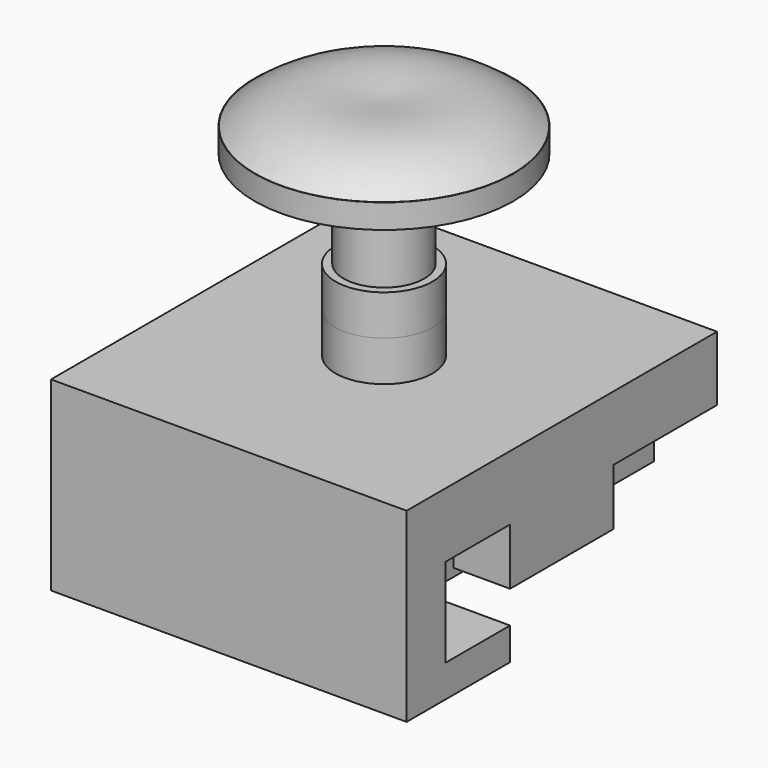
from build123d import *

# Parameters (mm, degrees)
SKETCH_R        = 2.5
PAD_DEPTH       = 15
SKETCH001_W     = 2.2
SKETCH001_H     = 2.2
POCKET_DEPTH    = 2
SKETCH002_R     = 8
PAD001_DEPTH    = 1.5
SKETCH004_W     = 22
SKETCH004_H     = 24
PAD002_DEPTH    = 4
SKETCH005_R     = 1.429715
POCKET001_DEPTH = 2.75
SKETCH007_W     = 5
SKETCH007_H     = 8
PAD004_DEPTH    = 3.5
SKETCH008_W     = 22
SKETCH008_H     = 3
PAD005_DEPTH    = 7.5
SKETCH009_W     = 22
SKETCH009_H     = 2
PAD006_DEPTH    = 5
SKETCH010_R     = 3
PAD007_DEPTH    = 5
SKETCH011_W     = 15
SKETCH011_H     = 23
PAD008_DEPTH    = 2
SKETCH012_W     = 2
SKETCH012_H     = 2
POCKET002_DEPTH = 5
SKETCH013_W     = 15
SKETCH013_H     = 23
SKETCH013_W_2   = 11
SKETCH013_H_2   = 19
PAD009_DEPTH    = 4
SKETCH015_W     = 15
SKETCH015_H     = 23
PAD010_DEPTH    = 1
SKETCH016_R     = 3
PAD011_DEPTH    = 3.5
SKETCH014_R     = 0.5
POCKET003_DEPTH = 6.5


with BuildPart() as paddle:
    # Sketch → Pad (new body)
    with BuildSketch(Plane.XY):
        Circle(SKETCH_R)
    extrude(amount=PAD_DEPTH)

    # Sketch001 (on Face2 of Pad) → Pocket (cut)
    with BuildSketch(Plane(origin=(0, 0, 0), x_dir=(1, 0, 0), z_dir=(0, 0, -1))):
        Rectangle(SKETCH001_W, SKETCH001_H)
    extrude(amount=-POCKET_DEPTH, mode=Mode.SUBTRACT)

    # Sketch002 (on Face3 of Pocket) → Pad001 (join)
    with BuildSketch(Plane.XY.offset(15)):
        Circle(SKETCH002_R)
    extrude(amount=PAD001_DEPTH)

    # Sketch003 → Revolution (revolve)
    with BuildSketch(Plane.XZ):
        with BuildLine():
            Line((0, 18), (0, 16.48024))
            Line((0, 16.48024), (8, 16.48024))
            add(Edge.make_bspline(
                [(0, 18), (2, 18), (5, 19), (8, 16.48024)],
                knots=[0, 0, 0, 0, 1, 1, 1, 1], degree=3))
        make_face()
    revolve(axis=Axis((0, 0, 0), (0, 0, 1)))


with BuildPart() as basetest:
    # Sketch004 → Pad002 (new body)
    with BuildSketch(Plane.XY):
        Rectangle(SKETCH004_W, SKETCH004_H)
    extrude(amount=PAD002_DEPTH)

    # Sketch005 (on Face5 of Pad002) → Pocket001 (cut)
    with BuildSketch(Plane(origin=(0, 0, 0), x_dir=(1, 0, 0), z_dir=(0, 0, -1))):
        Circle(SKETCH005_R)
    extrude(amount=-POCKET001_DEPTH, mode=Mode.SUBTRACT)

    # Sketch007 → Pad004 (join)
    with BuildSketch(Plane(origin=(0, 0, 0), x_dir=(1, 0, 0), z_dir=(0, 0, -1))):
        with Locations((-8.5, 0)):
            Rectangle(SKETCH007_W, SKETCH007_H)
        with Locations((8.5, 0)):
            Rectangle(SKETCH007_W, SKETCH007_H)
    extrude(amount=PAD004_DEPTH)

    # Sketch008 (on Face4 of Pad004) → Pad005 (join)
    with BuildSketch(Plane(origin=(0, 0, 0), x_dir=(1, 0, 0), z_dir=(0, 0, -1))):
        with Locations((0, 10.5)):
            Rectangle(SKETCH008_W, SKETCH008_H)
    extrude(amount=PAD005_DEPTH)

    # Sketch009 (on Face14 of Pad005) → Pad006 (join)
    with BuildSketch(Plane(origin=(0, -9, 0), x_dir=(-1, 0, 0), z_dir=(0, 1, 0))):
        with Locations((0, -6.5)):
            Rectangle(SKETCH009_W, SKETCH009_H)
    extrude(amount=PAD006_DEPTH)

    # Sketch010 (on Face5 of Pad006) → Pad007 (join)
    with BuildSketch(Plane.XY.offset(4)):
        Circle(SKETCH010_R)
    extrude(amount=PAD007_DEPTH)


with BuildPart() as test:
    # Sketch011 → Pad008 (new body)
    with BuildSketch(Plane.XY):
        Rectangle(SKETCH011_W, SKETCH011_H)
    extrude(amount=PAD008_DEPTH)

    # Sketch012 (on Face6 of Pad008) → Pocket002 (cut)
    with BuildSketch(Plane.XY.offset(2)):
        Rectangle(SKETCH012_W, SKETCH012_H)
    extrude(amount=-POCKET002_DEPTH, mode=Mode.SUBTRACT)

    # Sketch013 (on Face4 of Pocket002) → Pad009 (join)
    with BuildSketch(Plane(origin=(0, 0, 0), x_dir=(1, 0, 0), z_dir=(0, 0, -1))):
        Rectangle(SKETCH013_W, SKETCH013_H)
        Rectangle(SKETCH013_W_2, SKETCH013_H_2, mode=Mode.SUBTRACT)
    extrude(amount=PAD009_DEPTH)

    # Sketch015 (on Face5 of Pad009) → Pad010 (join)
    with BuildSketch(Plane.XY.offset(2)):
        Rectangle(SKETCH015_W, SKETCH015_H)
    extrude(amount=PAD010_DEPTH)

    # Sketch016 (on Face12 of Pad010) → Pad011 (join)
    with BuildSketch(Plane.XY.offset(3)):
        Circle(SKETCH016_R)
    extrude(amount=PAD011_DEPTH)

    # Sketch014 (on Face11 of Pad011) → Pocket003 (cut)
    with BuildSketch(Plane(origin=(0, 0, -4), x_dir=(1, 0, 0), z_dir=(0, 0, -1))):
        with Locations((-5.25, -9)):
            Circle(SKETCH014_R)
        with Locations((5.25, -9)):
            Circle(SKETCH014_R)
        with Locations((-5.25, 9)):
            Circle(SKETCH014_R)
        with Locations((5.25, 9)):
            Circle(SKETCH014_R)
    extrude(amount=-POCKET003_DEPTH, mode=Mode.SUBTRACT)


solid = Compound([paddle.part, basetest.part, test.part])
